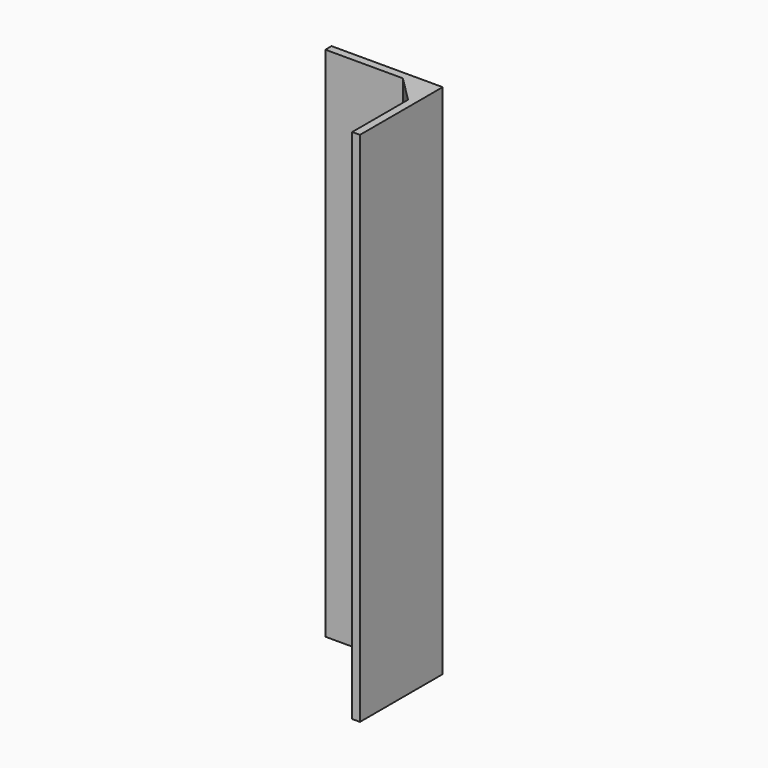
from build123d import *

# Parameters (mm, degrees)
F0_W     = 40
F0_H     = 200
F1_DEPTH = 3
F2_W     = 3
F2_H     = 200
F3_DEPTH = 40
F5_DEPTH = 100


with BuildPart() as f1:
    # F0 (on Front) → F1 (new body)
    with BuildSketch(Plane.XZ):
        Rectangle(F0_W, F0_H)
    extrude(amount=F1_DEPTH)

    # F2 (on Front) → F3 (join)
    with BuildSketch(Plane.XZ):
        with Locations((21.5, 0)):
            Rectangle(F2_W, F2_H)
    extrude(amount=F3_DEPTH)

    # F4 (on Top) → F5 (join, symmetric)
    with BuildSketch(Plane.XY):
        Polygon((10, -3), (20, -13), (20, -3), align=None)
    extrude(amount=F5_DEPTH, both=True)


solid = f1.part
